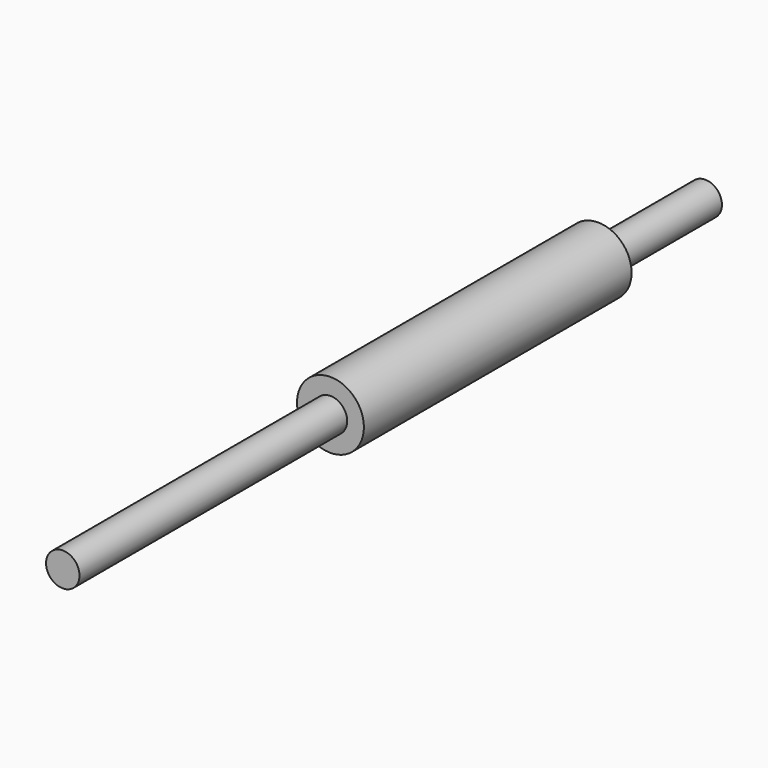
from build123d import *

# Parameters (mm, degrees)
F0_R     = 5
F1_DEPTH = 40
F2_R     = 5
F4_DEPTH = 200
F3_R     = 10
F3_R_2   = 5
F5_DEPTH = 100


with BuildPart() as f1:
    # F0 (on Front) → F1 (new body)
    with BuildSketch(Plane.XZ):
        Circle(F0_R)
    extrude(amount=F1_DEPTH)

    # F2 (on face) → F4 (join)
    with BuildSketch(Plane.XZ.offset(40)):
        Circle(F2_R)
    extrude(amount=F4_DEPTH)

    # F3 (on face) → F5 (join)
    with BuildSketch(Plane.XZ.offset(40)):
        Circle(F3_R)
        Circle(F3_R_2, mode=Mode.SUBTRACT)
    extrude(amount=F5_DEPTH)


solid = f1.part
